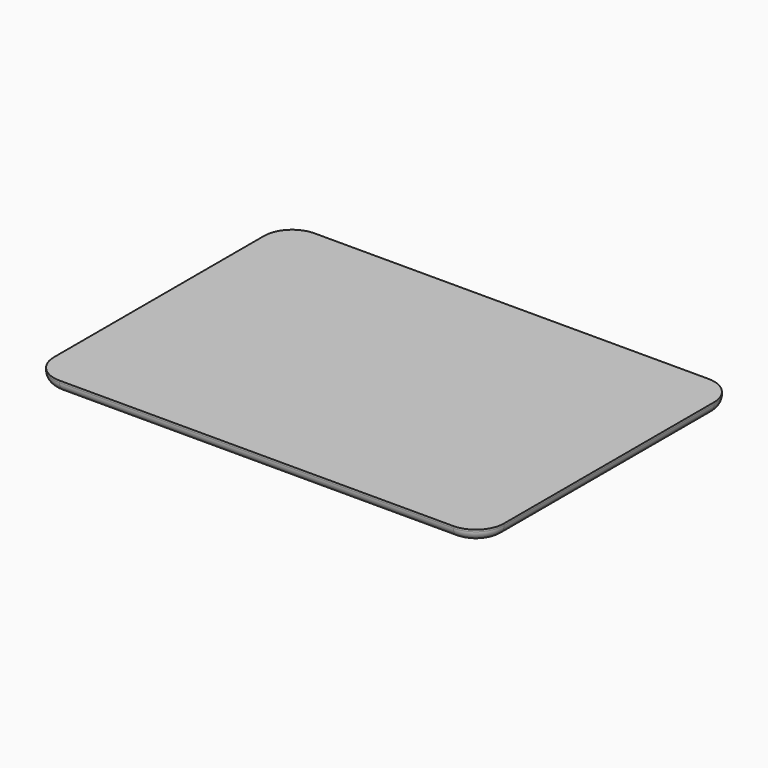
from build123d import *

# Parameters (mm, degrees)
F0_W     = 240
F0_H     = 170
F1_DEPTH = 6
F2_R     = 15
F3_R     = 5


with BuildPart() as f1:
    # F0 (on Top) → F1 (new body)
    with BuildSketch(Plane.XY):
        Rectangle(F0_W, F0_H)
    extrude(amount=F1_DEPTH)

    # F2
    f2_edges = [f1.edges().sort_by_distance(p)[0] for p in [
        (-120, -85, 3),
        (-120, 85, 3),
        (120, 85, 3),
        (120, -85, 3),
    ]]
    fillet(f2_edges, radius=F2_R)

    # F3
    f3_edges = [f1.edges().sort_by_distance(p)[0] for p in [
        (120, 0, 0),
        (115.606602, -80.606602, 0),
        (115.606602, 80.606602, 0),
        (0, -85, 0),
        (0, 85, 0),
        (-115.606602, -80.606602, 0),
        (-115.606602, 80.606602, 0),
        (-120, 0, 0),
    ]]
    fillet(f3_edges, radius=F3_R)


solid = f1.part
